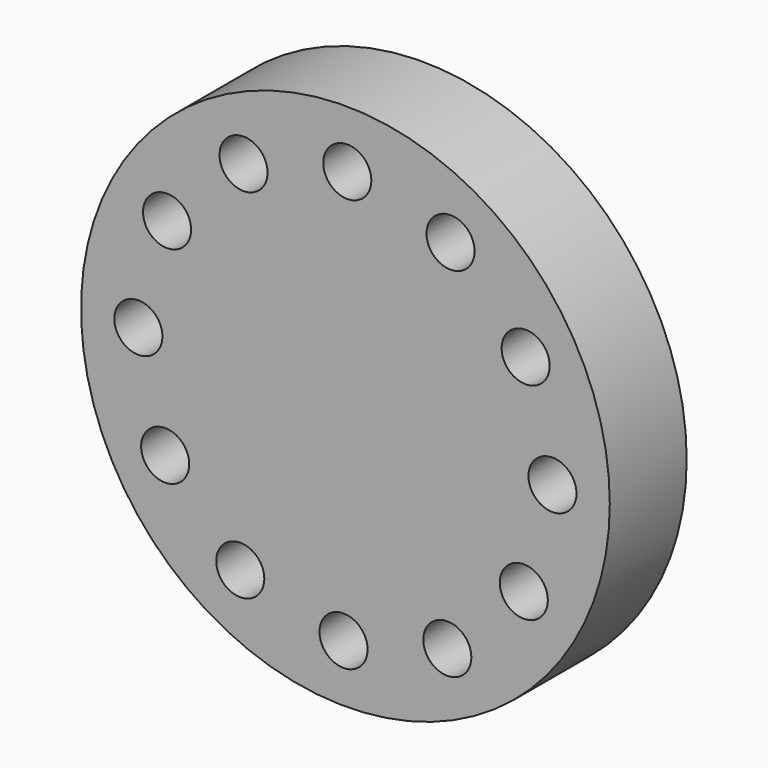
from build123d import *

# Parameters (mm, degrees)
F0_R     = 34.925
F0_R_2   = 3.175
F1_DEPTH = 12.7


with BuildPart() as f1:
    # F0 (on Front) → F1 (new body)
    with BuildSketch(Plane.XZ):
        Circle(F0_R)
        with Locations((-0.247554, -27.350496)):
            Circle(F0_R_2, mode=Mode.SUBTRACT)
        with Locations((-13.889636, -23.562447)):
            Circle(F0_R_2, mode=Mode.SUBTRACT)
        with Locations((-23.810001, -13.46086)):
            Circle(F0_R_2, mode=Mode.SUBTRACT)
        with Locations((13.46086, -23.810001)):
            Circle(F0_R_2, mode=Mode.SUBTRACT)
        with Locations((23.562447, -13.889636)):
            Circle(F0_R_2, mode=Mode.SUBTRACT)
        with Locations((27.350496, -0.247554)):
            Circle(F0_R_2, mode=Mode.SUBTRACT)
        with Locations((-27.350496, 0.247554)):
            Circle(F0_R_2, mode=Mode.SUBTRACT)
        with Locations((-23.562447, 13.889636)):
            Circle(F0_R_2, mode=Mode.SUBTRACT)
        with Locations((-13.46086, 23.810001)):
            Circle(F0_R_2, mode=Mode.SUBTRACT)
        with Locations((23.810001, 13.46086)):
            Circle(F0_R_2, mode=Mode.SUBTRACT)
        with Locations((13.889636, 23.562447)):
            Circle(F0_R_2, mode=Mode.SUBTRACT)
        with Locations((0.247554, 27.350496)):
            Circle(F0_R_2, mode=Mode.SUBTRACT)
    extrude(amount=F1_DEPTH)


solid = f1.part
